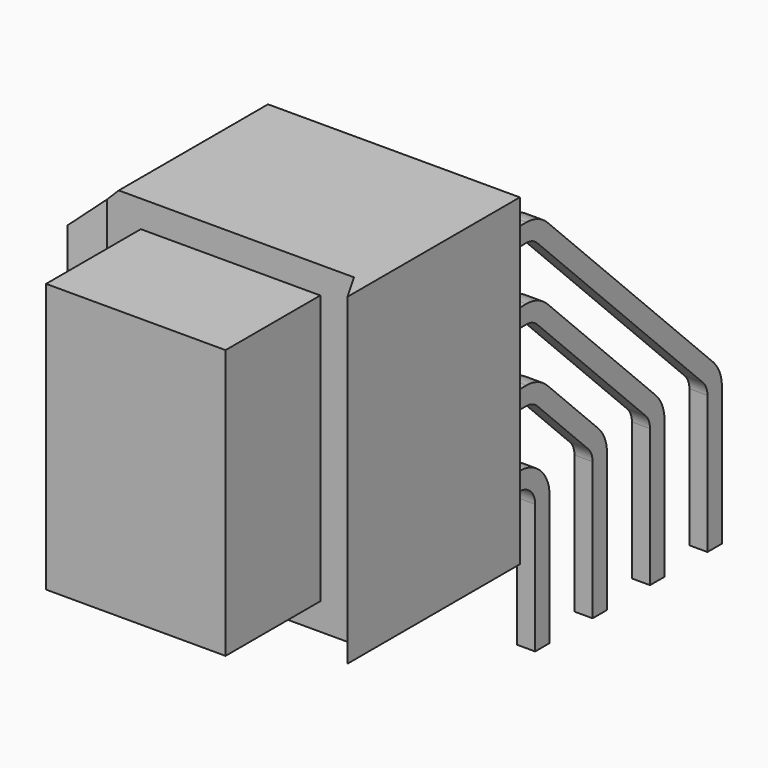
from build123d import *

# Parameters (mm, degrees)
SKETCH_W     = 9.91
SKETCH_H     = 11.43
PAD_DEPTH    = 7.62
SKETCH002_W  = 0.64
SKETCH002_H  = 0.64
SKETCH004_W  = 0.64
SKETCH004_H  = 0.64
SKETCH006_W  = 0.64
SKETCH006_H  = 0.64
SKETCH008_W  = 0.64
SKETCH008_H  = 0.64
POCKET_DEPTH = 11.431
SKETCH010_W  = 6.35
SKETCH010_H  = 9.525
PAD001_DEPTH = 4.19
CHAMFER_SIZE = 1


with BuildPart() as part:
    # Sketch → Pad (new body)
    with BuildSketch(Plane.XZ):
        with Locations((0, 5.715)):
            Rectangle(SKETCH_W, SKETCH_H)
    extrude(amount=-PAD_DEPTH)

    # AdditivePipe: sweep along a path in Sketch001
    with BuildLine(Plane.YZ) as additivepipe_path:
        Line((0, 9.525), (8.942893, 9.525))
        ThreePointArc((8.942893, 9.525), (9.325577, 9.44888), (9.65, 9.232107))
        Line((9.65, 9.232107), (16.977107, 1.905))
        ThreePointArc((16.977107, 1.905), (17.19388, 1.580577), (17.27, 1.197893))
        Line((17.27, 1.197893), (17.27, -3.68))
    # Sketch002 → AdditivePipe (sweep)
    with BuildSketch(Plane.XZ):
        with Locations((3.81, 9.525)):
            Rectangle(SKETCH002_W, SKETCH002_H)
    additivepipe = sweep(path=additivepipe_path.line)

    # AdditivePipe001: sweep along a path in Sketch003
    with BuildLine(Plane.YZ) as additivepipe001_path:
        Line((0, 6.985), (8.942893, 6.985))
        ThreePointArc((8.942893, 6.985), (9.325577, 6.90888), (9.65, 6.692107))
        Line((9.65, 6.692107), (14.437107, 1.905))
        ThreePointArc((14.437107, 1.905), (14.65388, 1.580577), (14.73, 1.197893))
        Line((14.73, 1.197893), (14.73, -3.68))
    # Sketch004 → AdditivePipe001 (sweep)
    with BuildSketch(Plane.XZ):
        with Locations((3.81, 6.985)):
            Rectangle(SKETCH004_W, SKETCH004_H)
    additivepipe001 = sweep(path=additivepipe001_path.line)

    # AdditivePipe002: sweep along a path in Sketch005
    with BuildLine(Plane.YZ) as additivepipe002_path:
        Line((0, 4.445), (8.942893, 4.445))
        ThreePointArc((8.942893, 4.445), (9.325577, 4.36888), (9.65, 4.152107))
        Line((9.65, 4.152107), (11.897107, 1.905))
        ThreePointArc((11.897107, 1.905), (12.11388, 1.580577), (12.19, 1.197893))
        Line((12.19, 1.197893), (12.19, -3.68))
    # Sketch006 → AdditivePipe002 (sweep)
    with BuildSketch(Plane.XZ):
        with Locations((3.81, 4.445)):
            Rectangle(SKETCH006_W, SKETCH006_H)
    additivepipe002 = sweep(path=additivepipe002_path.line)

    # AdditivePipe003: sweep along a path in Sketch007
    with BuildLine(Plane.YZ) as additivepipe003_path:
        Line((0, 1.905), (8.65, 1.905))
        ThreePointArc((8.65, 1.905), (9.357107, 1.612107), (9.65, 0.905))
        Line((9.65, 0.905), (9.65, -3.68))
    # Sketch008 → AdditivePipe003 (sweep)
    with BuildSketch(Plane.XZ):
        with Locations((3.81, 1.905)):
            Rectangle(SKETCH008_W, SKETCH008_H)
    additivepipe003 = sweep(path=additivepipe003_path.line)

    # Mirrored: AdditivePipe, AdditivePipe001, AdditivePipe002, AdditivePipe003 across Sketch002 V_Axis
    add(additivepipe.mirror(Plane(origin=(0, 0, 0), x_dir=(0, -1, 0), z_dir=(1, 0, 0))))
    add(additivepipe001.mirror(Plane(origin=(0, 0, 0), x_dir=(0, -1, 0), z_dir=(1, 0, 0))))
    add(additivepipe002.mirror(Plane(origin=(0, 0, 0), x_dir=(0, -1, 0), z_dir=(1, 0, 0))))
    add(additivepipe003.mirror(Plane(origin=(0, 0, 0), x_dir=(0, -1, 0), z_dir=(1, 0, 0))))

    # Sketch009 (on Face3 of AdditivePipe002) → Pocket (cut, through all)
    with BuildSketch(Plane(origin=(0, 0, 0), x_dir=(1, 0, 0), z_dir=(0, 0, -1))):
        Polygon((-4.955, 0), (4.955, 0), (4.366103, -1.02), (-4.366103, -1.02), align=None)
    extrude(amount=-POCKET_DEPTH, mode=Mode.SUBTRACT)

    # Sketch010 (on Face7 of Pocket) → Pad001 (join)
    with BuildSketch(Plane.XZ.offset(-1.02)):
        with Locations((0, 5.715)):
            Rectangle(SKETCH010_W, SKETCH010_H)
    extrude(amount=PAD001_DEPTH)

    # Chamfer
    chamfer_edges = [part.edges().sort_by_distance(p)[0] for p in [
        (-4.955, 3.81, 11.43),
    ]]
    chamfer(chamfer_edges, length=CHAMFER_SIZE)


solid = part.part
